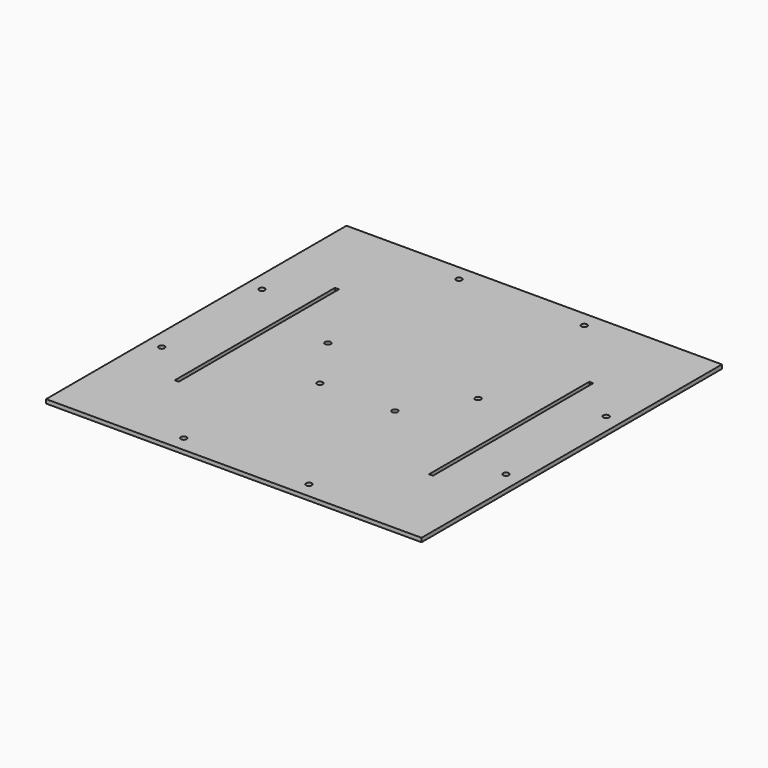
from build123d import *

# Parameters (mm, degrees)
F0_R     = 2.3114
F0_W     = 3.175
F0_H     = 160
F1_DEPTH = 3.175


with BuildPart() as f1:
    # F0 (on Top) → F1 (new body)
    with BuildSketch(Plane.XY):
        Polygon((-150, -150), (150, -150), (150, 150), (50, 150), (-50, 150), (-150, 150), align=None)
        with Locations((-50, -137.5)):
            Circle(F0_R, mode=Mode.SUBTRACT)
        with Locations((-137.5, -50)):
            Circle(F0_R, mode=Mode.SUBTRACT)
        with Locations((-101.5875, 0)):
            Rectangle(F0_W, F0_H, mode=Mode.SUBTRACT)
        with Locations((-30, -26.575)):
            Circle(F0_R, mode=Mode.SUBTRACT)
        with Locations((50, -137.5)):
            Circle(F0_R, mode=Mode.SUBTRACT)
        with Locations((30, -26.575)):
            Circle(F0_R, mode=Mode.SUBTRACT)
        with Locations((137.5, -50)):
            Circle(F0_R, mode=Mode.SUBTRACT)
        with Locations((101.5875, 0)):
            Rectangle(F0_W, F0_H, mode=Mode.SUBTRACT)
        with Locations((-137.5, 50)):
            Circle(F0_R, mode=Mode.SUBTRACT)
        with Locations((-60, 18.970938)):
            Circle(F0_R, mode=Mode.SUBTRACT)
        with BuildLine():
            ThreePointArc((-47.6886, 137.5), (-51.634407, 135.865593), (-50, 139.8114))
            ThreePointArc((-50, 139.8114), (-48.365593, 139.134407), (-47.6886, 137.5))
        make_face(mode=Mode.SUBTRACT)
        with Locations((60, 18.970938)):
            Circle(F0_R, mode=Mode.SUBTRACT)
        with Locations((137.5, 50)):
            Circle(F0_R, mode=Mode.SUBTRACT)
        with BuildLine():
            ThreePointArc((52.3114, 137.5), (50, 135.1886), (47.6886, 137.5))
            ThreePointArc((47.6886, 137.5), (48.365593, 139.134407), (50, 139.8114))
            ThreePointArc((50, 139.8114), (51.634407, 139.134407), (52.3114, 137.5))
        make_face(mode=Mode.SUBTRACT)
    extrude(amount=F1_DEPTH)


solid = f1.part
